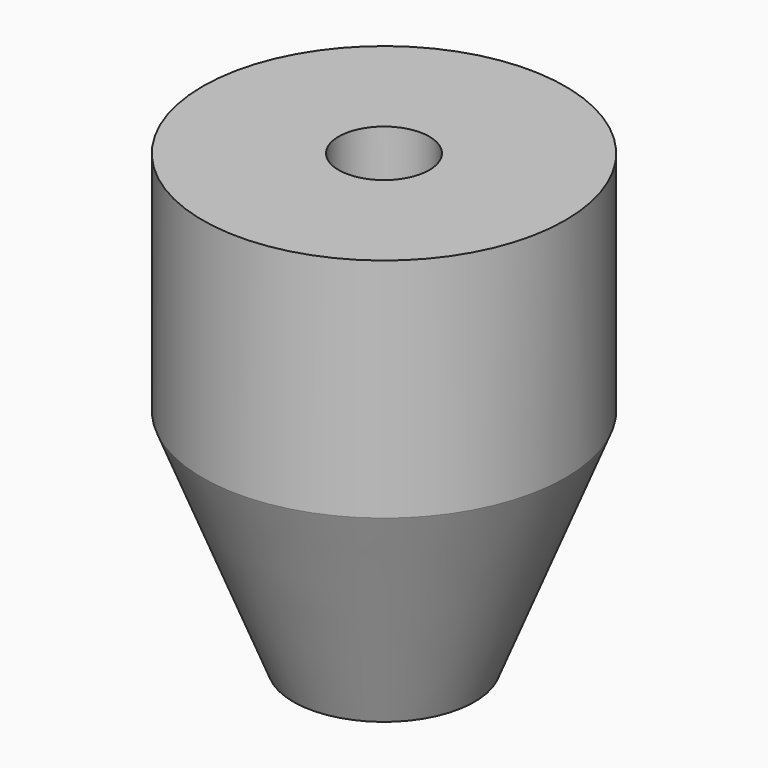
from build123d import *

# Parameters (mm, degrees)
F2_R     = 2
F3_DEPTH = 10


with BuildPart() as f1:
    # F0 (on Front) → F1 (revolve)
    with BuildSketch(Plane.XZ):
        Polygon((4, 10), (-4, 10), (-4, 0), (0, -10), (4, -10), align=None)
    revolve(axis=Axis((4, 0, 0), (0, 0, -1)))

    # F2 (on face) → F3 (cut)
    with BuildSketch(Plane.XY.offset(10)):
        with Locations((4, 0)):
            Circle(F2_R)
    extrude(amount=-F3_DEPTH, mode=Mode.SUBTRACT)


solid = f1.part
